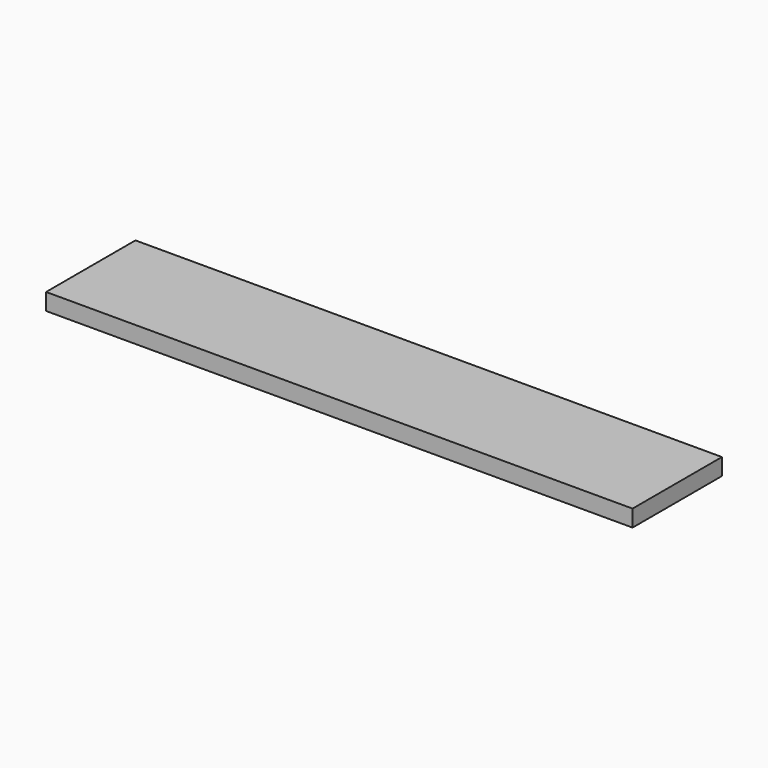
from build123d import *

# Parameters (mm, degrees)
SKETCH_W  = 420
SKETCH_H  = 80
PAD_DEPTH = 12


with BuildPart() as part:
    # Sketch → Pad (new body)
    with BuildSketch(Plane.XY):
        with Locations((210, 40)):
            Rectangle(SKETCH_W, SKETCH_H)
    extrude(amount=PAD_DEPTH)


solid = part.part
